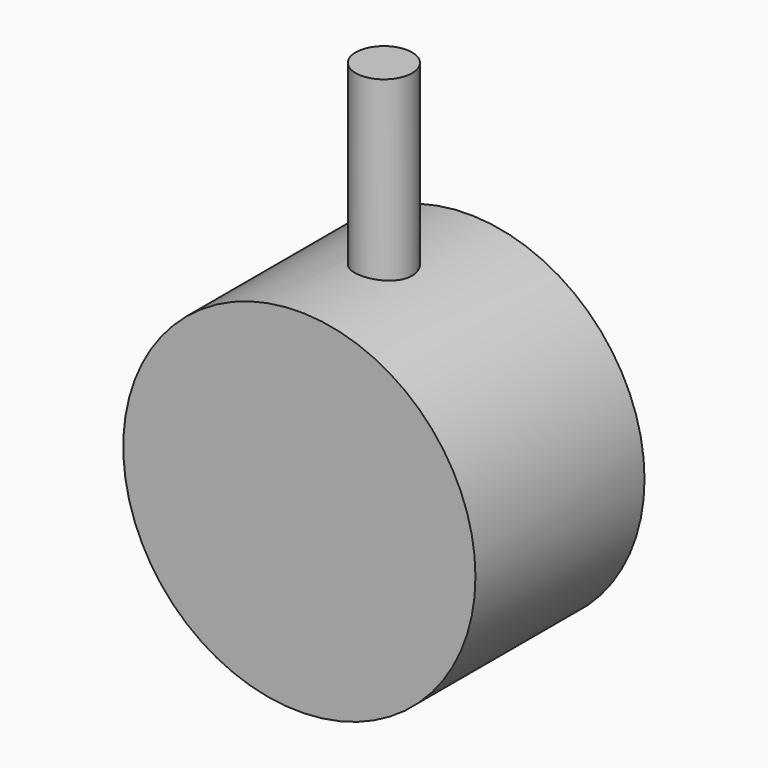
from build123d import *

# Parameters (mm, degrees)
F0_R          = 25
F2_DEPTH      = 15
F2_DEPTH_BACK = 15
F1_R          = 4
F3_DEPTH      = 50


with BuildPart() as f2:
    # F0 (on Front) → F2 (new body, two sides)
    with BuildSketch(Plane.XZ) as f2_sk:
        Circle(F0_R)
    extrude(amount=F2_DEPTH)
    extrude(f2_sk.sketch, amount=-F2_DEPTH_BACK)

    # F1 (on Top) → F3 (join)
    with BuildSketch(Plane.XY):
        Circle(F1_R)
    extrude(amount=F3_DEPTH)


solid = f2.part
